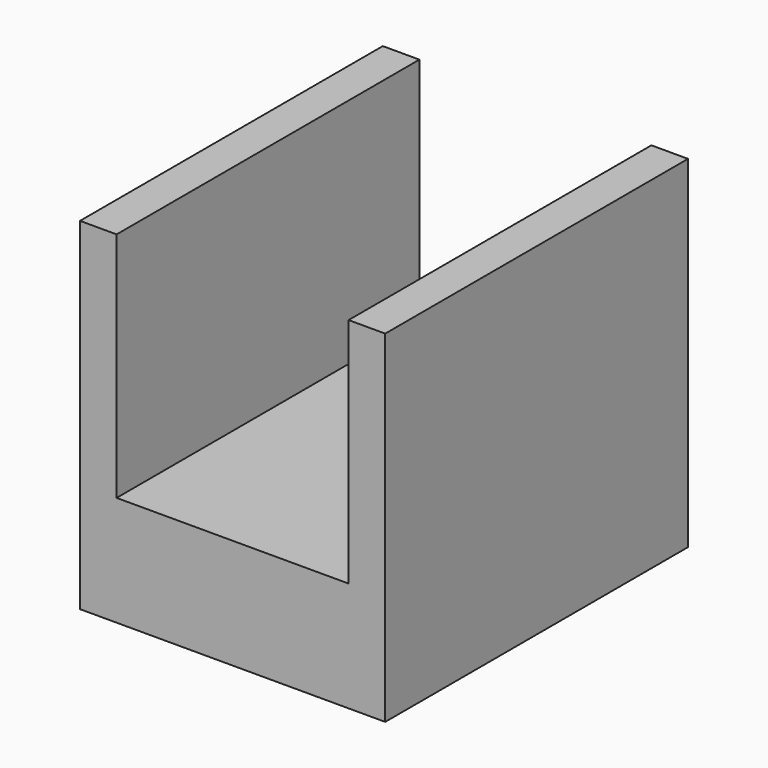
from build123d import *

# Parameters (mm, degrees)
F0_W     = 25
F0_H     = 31
F1_DEPTH = 28
F3_W     = 19
F3_H     = 19
F4_DEPTH = 31.001


with BuildPart() as f1:
    # F0 (on Top) → F1 (new body)
    with BuildSketch(Plane.XY):
        with Locations((12.5, 15.5)):
            Rectangle(F0_W, F0_H)
    extrude(amount=F1_DEPTH)

    # F3 (on face) → F4 (cut, through all)
    with BuildSketch(Plane.XZ):
        with Locations((12.500027, 18.500176)):
            Rectangle(F3_W, F3_H)
    extrude(amount=-F4_DEPTH, mode=Mode.SUBTRACT)


solid = f1.part
